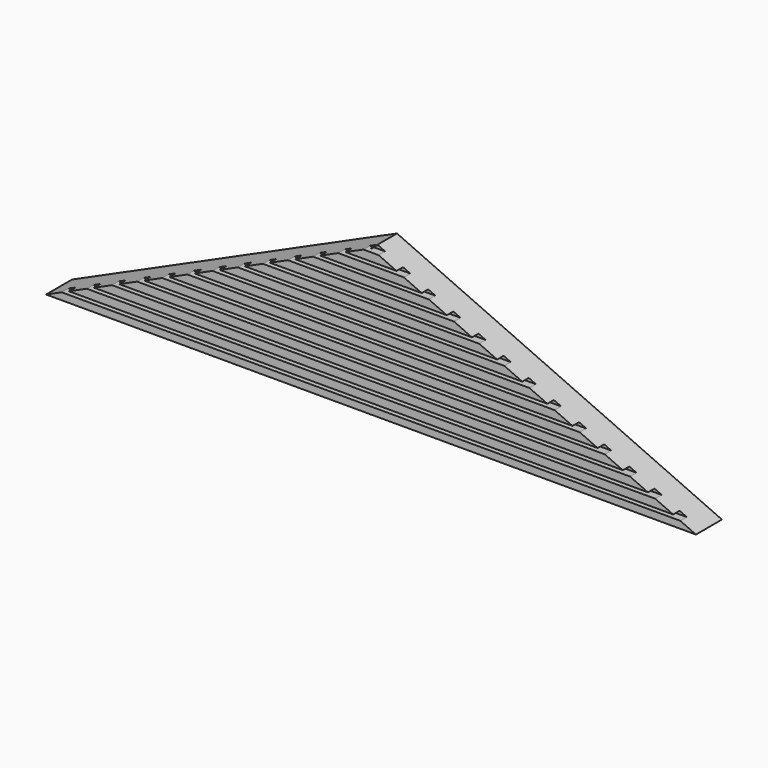
from build123d import *

# Parameters (mm, degrees)
PAD_DEPTH    = 2
SKETCH001_W  = 41.942294
SKETCH001_H  = 0.2
POCKET_DEPTH = 0.5


with BuildPart() as part:
    # Sketch → Pad (new body)
    with BuildSketch(Plane.XZ):
        Polygon((-20, 6.85827), (20, 6.85827), (0, 15.85827), align=None)
    extrude(amount=PAD_DEPTH)

    # Sketch001 (on Face5 of Pad) → Pocket (cut)
    with BuildSketch(Plane.XZ.offset(2)):
        with Locations((0.24899, 7.390751)):
            Rectangle(SKETCH001_W, SKETCH001_H)
        with Locations((0.253757, 8.087106)):
            Rectangle(SKETCH001_W, SKETCH001_H)
        with Locations((0.258524, 8.783461)):
            Rectangle(SKETCH001_W, SKETCH001_H)
        with Locations((0.263291, 9.479816)):
            Rectangle(SKETCH001_W, SKETCH001_H)
        with Locations((0.268058, 10.176171)):
            Rectangle(SKETCH001_W, SKETCH001_H)
        with Locations((0.272825, 10.872526)):
            Rectangle(SKETCH001_W, SKETCH001_H)
        with Locations((0.277592, 11.568881)):
            Rectangle(SKETCH001_W, SKETCH001_H)
        with Locations((0.282359, 12.265236)):
            Rectangle(SKETCH001_W, SKETCH001_H)
        with Locations((0.287126, 12.961591)):
            Rectangle(SKETCH001_W, SKETCH001_H)
        with Locations((0.291893, 13.657946)):
            Rectangle(SKETCH001_W, SKETCH001_H)
        with Locations((0.29666, 14.354301)):
            Rectangle(SKETCH001_W, SKETCH001_H)
        with Locations((0.301427, 15.050656)):
            Rectangle(SKETCH001_W, SKETCH001_H)
        with Locations((0.306194, 15.747011)):
            Rectangle(SKETCH001_W, SKETCH001_H)
    extrude(amount=-POCKET_DEPTH, mode=Mode.SUBTRACT)


solid = part.part
